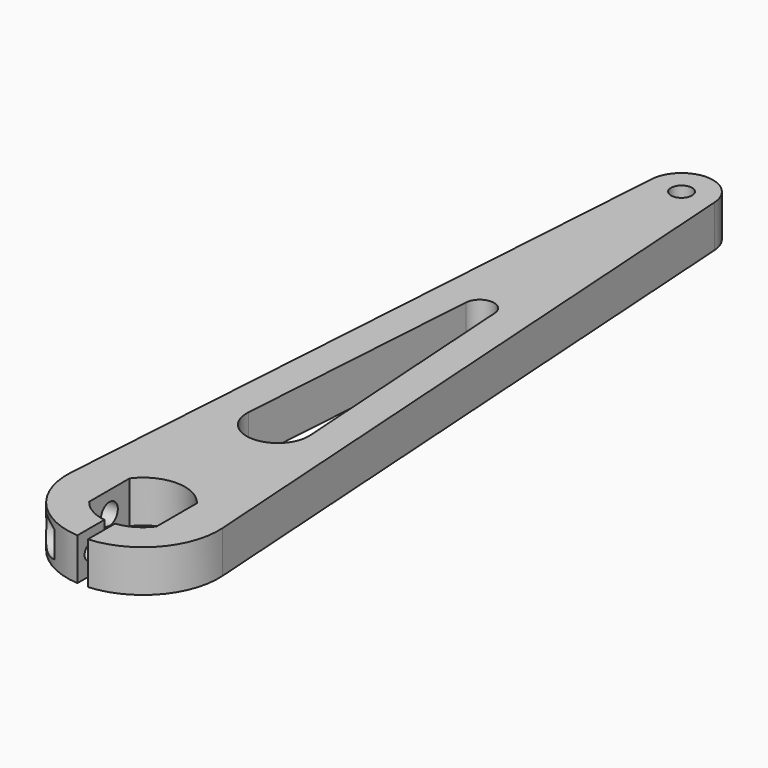
from build123d import *

# Parameters (mm, degrees)
F0_R          = 3.175
F1_DEPTH      = 12.7
F2_R          = 3.175
F3_DEPTH      = 25.4
F4_R          = 2.38125
F5_DEPTH      = 6.35
F5_DEPTH_BACK = 22.8610001193
F7_R          = 4.7625
F8_DEPTH      = 10.16


with BuildPart() as f1:
    # F0 (on Top) → F1 (new body)
    with BuildSketch(Plane.XY):
        with BuildLine():
            Line((-9.5044674936, 203.825078125), (-22.8107219847, 1.5001875))
            ThreePointArc((-22.8107219847, 1.5001875), (-17.219220581, -15.035891812), (-1.5875, -22.8048118552))
            Line((-1.5875, -22.8048118552), (-1.5875, -12.6003906189))
            ThreePointArc((-1.5875, -12.6003906189), (-6.3798128297, -10.981256224), (-10.16, -7.62))
            Line((-10.16, -7.62), (-10.16, 7.62))
            ThreePointArc((-10.16, 7.62), (0, 12.7), (10.16, 7.62))
            Line((10.16, 7.62), (10.16, -7.62))
            ThreePointArc((10.16, -7.62), (6.3798128297, -10.981256224), (1.5875, -12.6003906189))
            Line((1.5875, -12.6003906189), (1.5875, -22.8048118552))
            ThreePointArc((1.5875, -22.8048118552), (17.219220581, -15.035891812), (22.8107219847, 1.5001875))
            Line((22.8107219847, 1.5001875), (9.5044674936, 203.825078125))
            ThreePointArc((9.5044674936, 203.825078125), (0, 212.725), (-9.5044674936, 203.825078125))
        make_face()
        with BuildLine():
            ThreePointArc((9.3460597021, 51.4146601563), (0, 41.43375), (-9.3460597021, 51.4146601563))
            Line((-9.3460597021, 51.4146601563), (-4.3562142679, 127.2864941406))
            ThreePointArc((-4.3562142679, 127.2864941406), (0, 131.365625), (4.3562142679, 127.2864941406))
            Line((4.3562142679, 127.2864941406), (9.3460597021, 51.4146601563))
        make_face(mode=Mode.SUBTRACT)
        with Locations((0, 203.2)):
            Circle(F0_R, mode=Mode.SUBTRACT)
    extrude(amount=F1_DEPTH)

    # F2 (on face) → F3 (cut)
    with BuildSketch(Plane.YZ.offset(-10.16)):
        with Locations((0, 6.35)):
            Circle(F2_R)
    extrude(amount=-F3_DEPTH, mode=Mode.SUBTRACT)

    # F4 (on Right) → F5 (cut, two sides)
    with BuildSketch(Plane.YZ) as f5_sk:
        with Locations((-17.7026012371, 6.35)):
            Circle(F4_R)
    extrude(amount=F5_DEPTH, mode=Mode.SUBTRACT)
    extrude(f5_sk.sketch, amount=-F5_DEPTH_BACK, mode=Mode.SUBTRACT)

    # F7 (on offset) → F8 (cut)
    with BuildSketch(Plane.YZ.offset(-20.6375)):
        with Locations((-17.7026012371, 6.35)):
            Circle(F7_R)
    extrude(amount=F8_DEPTH, mode=Mode.SUBTRACT)


solid = f1.part
